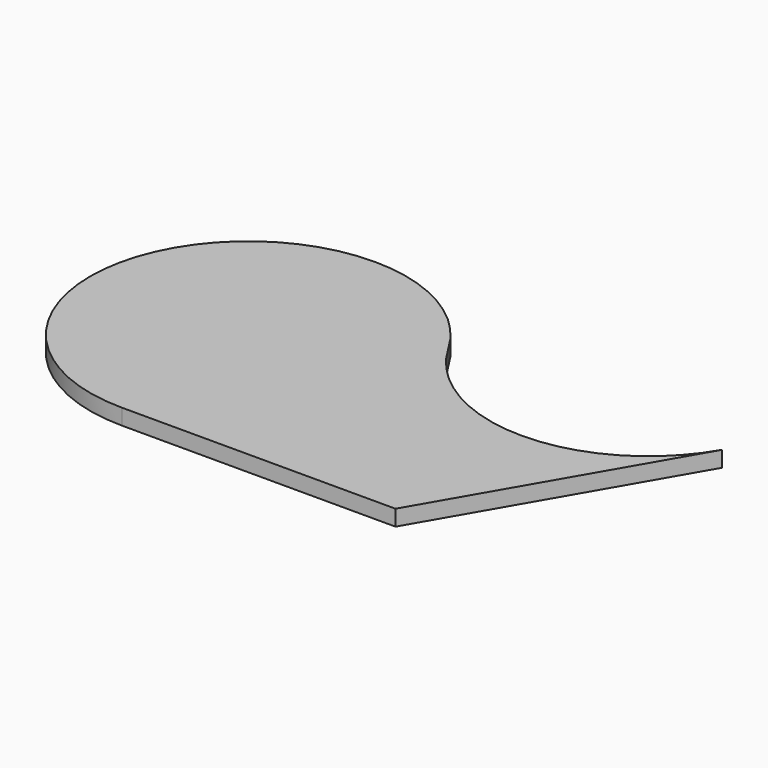
from build123d import *

# Parameters (mm, degrees)
F2_DEPTH = 6.35


with BuildPart() as f2:
    # F1 (on Top) → F2 (new body)
    with BuildSketch(Plane.XY):
        with BuildLine():
            ThreePointArc((54.992613, 95.25), (0, 63.5), (-54.992613, 95.25))
            ThreePointArc((-54.992613, 95.25), (-164.977839, 95.25), (-109.985226, 0))
            Line((-109.985226, 0), (0, 0))
            Line((0, 0), (54.992613, 95.25))
        make_face()
    extrude(amount=F2_DEPTH)


solid = f2.part
